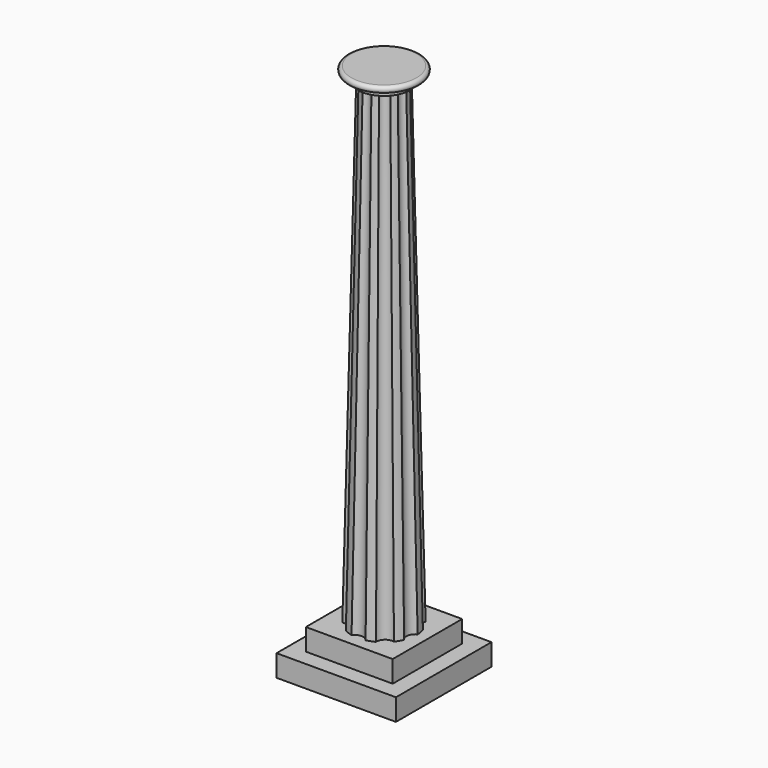
from build123d import *

# Parameters (mm, degrees)
F0_W     = 69.85
F0_H     = 69.85
F1_DEPTH = 12.7
F2_W     = 50.8
F2_H     = 50.8
F3_DEPTH = 12.7
F8_W     = 3.81
F8_H     = 3.81


with BuildPart() as f1:
    # F0 (on Top) → F1 (new body)
    with BuildSketch(Plane.XY):
        Rectangle(F0_W, F0_H)
    extrude(amount=F1_DEPTH)

    # F2 (on face) → F3 (join)
    with BuildSketch(Plane.XY.offset(12.7)):
        Rectangle(F2_W, F2_H)
    extrude(amount=F3_DEPTH)

    # F5 (on face) → F7 section 0
    with BuildSketch(Plane.XY.offset(25.4)):
        with BuildLine():
            ThreePointArc((17.60579, -7.275895), (16.259176, -2.866931), (19.032534, 0.81557))
            ThreePointArc((19.032534, 0.81557), (18.760588, 3.307998), (18.163673, 5.743125))
            ThreePointArc((18.163673, 5.743125), (14.298079, 8.255), (14.055529, 12.85864))
            ThreePointArc((14.055529, 12.85864), (12.245104, 14.593147), (10.222571, 16.074873))
            ThreePointArc((10.222571, 16.074873), (5.646753, 15.514325), (2.501785, 18.885009))
            ThreePointArc((2.501785, 18.885009), (0, 19.05), (-2.501785, 18.885009))
            ThreePointArc((-2.501785, 18.885009), (-5.646753, 15.514325), (-10.222571, 16.074873))
            ThreePointArc((-10.222571, 16.074873), (-12.245104, 14.593147), (-14.055529, 12.85864))
            ThreePointArc((-14.055529, 12.85864), (-14.298079, 8.255), (-18.163673, 5.743125))
            ThreePointArc((-18.163673, 5.743125), (-18.760588, 3.307998), (-19.032534, 0.81557))
            ThreePointArc((-19.032534, 0.81557), (-16.259176, -2.866931), (-17.60579, -7.275895))
            ThreePointArc((-17.60579, -7.275895), (-16.497784, -9.525), (-15.104005, -11.609114))
            ThreePointArc((-15.104005, -11.609114), (-10.612423, -12.647394), (-8.809963, -16.890443))
            ThreePointArc((-8.809963, -16.890443), (-6.515484, -17.901144), (-4.108144, -18.601765))
            ThreePointArc((-4.108144, -18.601765), (0, -16.51), (4.108144, -18.601765))
            ThreePointArc((4.108144, -18.601765), (6.515484, -17.901144), (8.809963, -16.890443))
            ThreePointArc((8.809963, -16.890443), (10.612423, -12.647394), (15.104005, -11.609114))
            ThreePointArc((15.104005, -11.609114), (16.497784, -9.525), (17.60579, -7.275895))
        make_face()
    # F6 (on offset) → F7 section 1
    with BuildSketch(Plane.XY.offset(304.8)):
        with BuildLine():
            ThreePointArc((11.798684, -4.699048), (11.256353, -1.984799), (12.694305, 0.380274))
            ThreePointArc((12.694305, 0.380274), (12.507058, 2.205332), (12.058806, 3.984368))
            ThreePointArc((12.058806, 3.984368), (9.89867, 5.715), (9.479967, 8.451049))
            ThreePointArc((9.479967, 8.451049), (8.163403, 9.728764), (6.676479, 10.803454))
            ThreePointArc((6.676479, 10.803454), (3.90929, 10.740687), (1.829847, 12.567484))
            ThreePointArc((1.829847, 12.567484), (0, 12.7), (-1.829847, 12.567484))
            ThreePointArc((-1.829847, 12.567484), (-3.90929, 10.740687), (-6.676479, 10.803454))
            ThreePointArc((-6.676479, 10.803454), (-8.163403, 9.728764), (-9.479967, 8.451049))
            ThreePointArc((-9.479967, 8.451049), (-9.89867, 5.715), (-12.058806, 3.984368))
            ThreePointArc((-12.058806, 3.984368), (-12.507058, 2.205332), (-12.694305, 0.380274))
            ThreePointArc((-12.694305, 0.380274), (-11.256353, -1.984799), (-11.798684, -4.699048))
            ThreePointArc((-11.798684, -4.699048), (-10.998523, -6.35), (-9.968837, -7.868436))
            ThreePointArc((-9.968837, -7.868436), (-7.347062, -8.755888), (-6.017826, -11.183728))
            ThreePointArc((-6.017826, -11.183728), (-4.343656, -11.934096), (-2.578839, -12.435417))
            ThreePointArc((-2.578839, -12.435417), (0, -11.43), (2.578839, -12.435417))
            ThreePointArc((2.578839, -12.435417), (4.343656, -11.934096), (6.017826, -11.183728))
            ThreePointArc((6.017826, -11.183728), (7.347062, -8.755888), (9.968837, -7.868436))
            ThreePointArc((9.968837, -7.868436), (10.998523, -6.35), (11.798684, -4.699048))
        make_face()
    loft()

    # F8 (on Right) → F9 (revolve)
    with BuildSketch(Plane.YZ):
        with Locations((17.145, 310.515)):
            Rectangle(F8_W, F8_H)
        with BuildLine():
            Line((19.05, 312.42), (19.05, 308.61))
            ThreePointArc((19.05, 308.61), (20.955, 310.515), (19.05, 312.42))
        make_face()
        Polygon((0, 312.42), (0, 304.8), (15.24, 304.8), (15.24, 308.61), (15.24, 312.42), align=None)
    revolve(axis=Axis((0, 0, 308.61), (0, 0, 1)))


solid = f1.part
